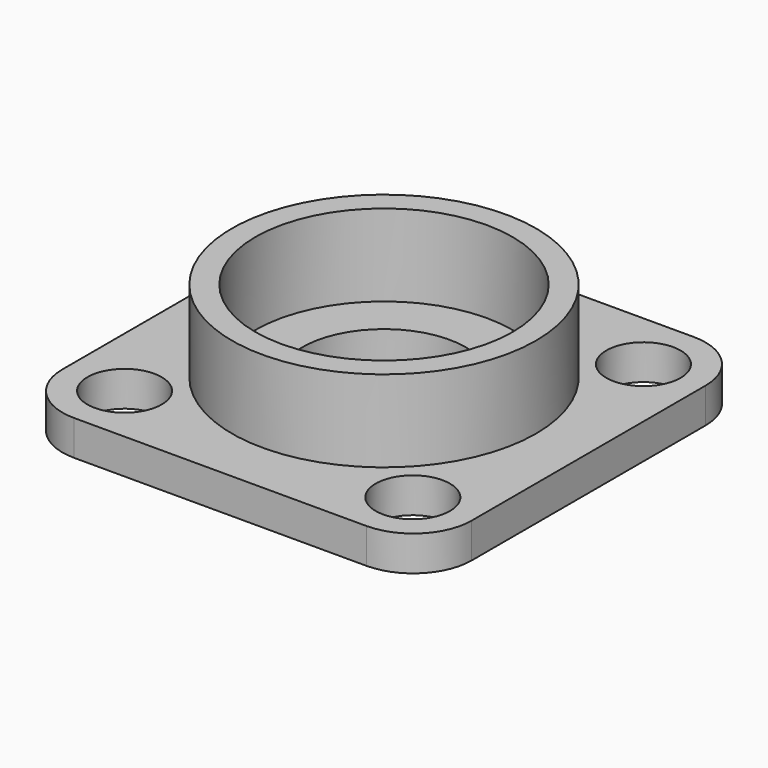
from build123d import *

# Parameters (mm, degrees)
F0_R     = 3.175
F0_R_2   = 13
F1_DEPTH = 3
F0_R_3   = 11
F0_R_4   = 7
F2_DEPTH = 10


with BuildPart() as f1:
    # F0 (on Top) → F1 (new body)
    with BuildSketch(Plane.XY):
        with BuildLine():
            ThreePointArc((17.5, 12.5), (16.0355339059, 16.0355339059), (12.5, 17.5))
            Line((12.5, 17.5), (-12.5, 17.5))
            ThreePointArc((-12.5, 17.5), (-16.0355339059, 16.0355339059), (-17.5, 12.5))
            Line((-17.5, 12.5), (-17.5, -12.5))
            ThreePointArc((-17.5, -12.5), (-16.0355339059, -16.0355339059), (-12.5, -17.5))
            Line((-12.5, -17.5), (12.5, -17.5))
            ThreePointArc((12.5, -17.5), (16.0355339059, -16.0355339059), (17.5, -12.5))
            Line((17.5, -12.5), (17.5, 12.5))
        make_face()
        with Locations((-12.325, -12.325)):
            Circle(F0_R, mode=Mode.SUBTRACT)
        with Locations((12.325, -12.325)):
            Circle(F0_R, mode=Mode.SUBTRACT)
        with Locations((-12.325, 12.325)):
            Circle(F0_R, mode=Mode.SUBTRACT)
        Circle(F0_R_2, mode=Mode.SUBTRACT)
        with Locations((12.325, 12.325)):
            Circle(F0_R, mode=Mode.SUBTRACT)
    extrude(amount=F1_DEPTH)



with BuildPart() as f1b:
    # F0 (on Top) → F1, piece 2 (new body)
    with BuildSketch(Plane.XY):
        Circle(F0_R_3)
        Circle(F0_R_4, mode=Mode.SUBTRACT)
    extrude(amount=F1_DEPTH)


with BuildPart() as f1_1:
    add(f1.part)

    add(f1b.part)  # F2 merges F1b
    # F0 (on Top) → F2 (join)
    with BuildSketch(Plane.XY):
        Circle(F0_R_2)
        Circle(F0_R_3, mode=Mode.SUBTRACT)
    extrude(amount=F2_DEPTH)


solid = f1_1.part
